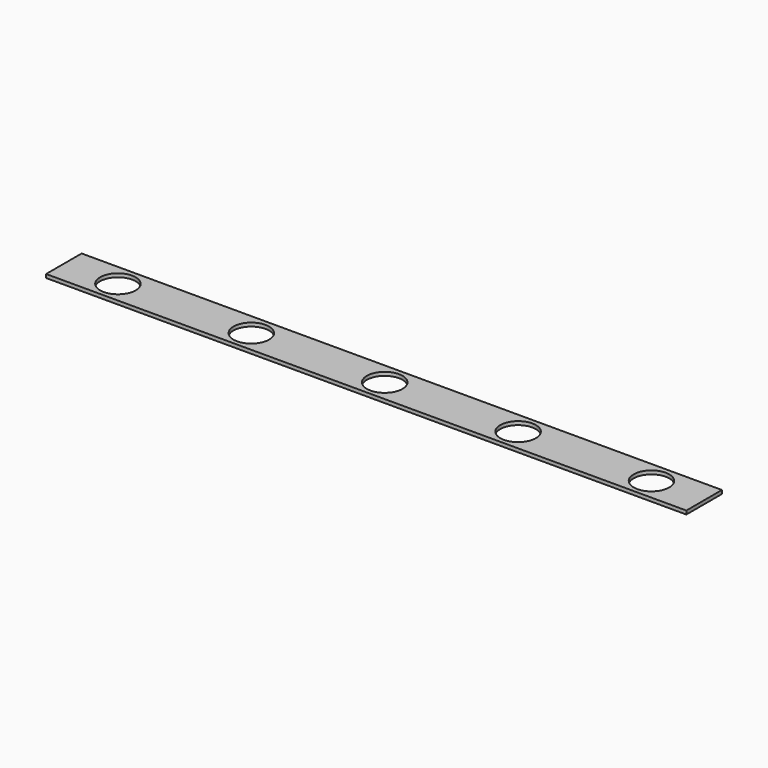
from build123d import *

# Parameters (mm, degrees)
F0_W     = 360
F0_H     = 25
F1_DEPTH = 2
F3_D     = 20


with BuildPart() as f1:
    # F0 (on Top) → F1 (new body)
    with BuildSketch(Plane.XY):
        Rectangle(F0_W, F0_H)
    extrude(amount=F1_DEPTH)

    # F3 (through all)
    with Locations(Plane(origin=(0, 0, 0), x_dir=(1, 0, 0), z_dir=(0, 0, -1))):
        with Locations((-149.5445084572, 0.0759156421), (-74.5445084572, 0.0759156421), (0.4554915428, 0.0759156421), (75.4554915428, 0.0759156421), (150.4554915428, 0.0759156421)):
            Hole(F3_D / 2)


solid = f1.part
